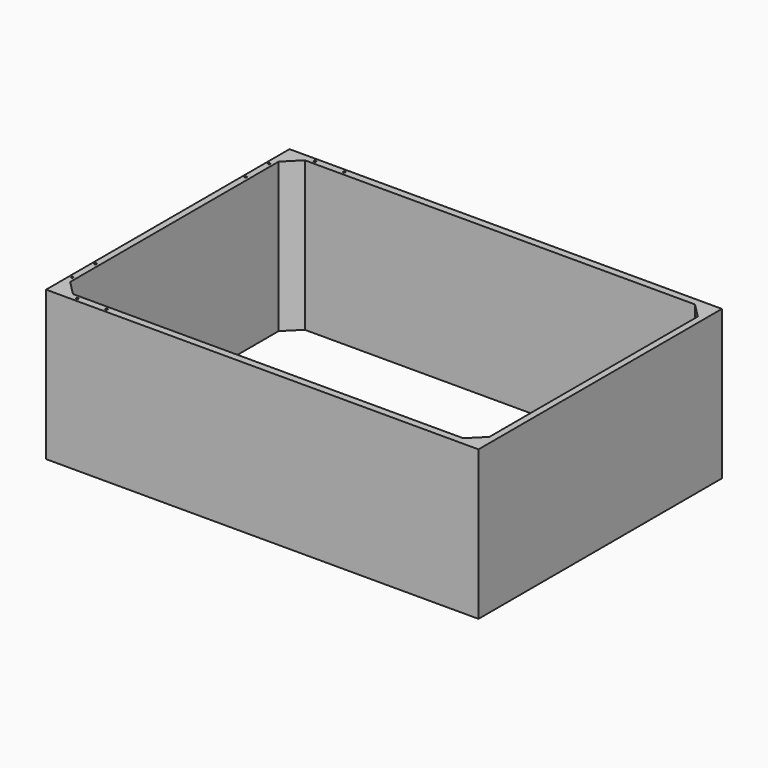
from build123d import *

# Parameters (mm, degrees)
SKETCH_W        = 594
SKETCH_H        = 418
PAD_DEPTH       = 205
POCKET_DEPTH    = 205.001
COPYSKETCH002_R = 1.5
HOLE_DEPTH      = 14.098709
HOLE_TIPS_R     = 1.5


with BuildPart() as part:
    # Sketch → Pad (new body)
    with BuildSketch(Plane.XY):
        Rectangle(SKETCH_W, SKETCH_H)
    extrude(amount=-PAD_DEPTH)

    # Sketch001 (on Face5 of Pad) → Pocket (cut, through all)
    with BuildSketch(Plane.XY):
        Polygon((-288, -179), (-288, 179), (-268, 199), (268, 199), (288, 179), (288, -179), (268, -199), (-268, -199), align=None)
    extrude(amount=-POCKET_DEPTH, mode=Mode.SUBTRACT)

    # CopySketch002 → Hole (cut)
    with BuildSketch(Plane.XY):
        with Locations((-258, -204)):
            Circle(COPYSKETCH002_R)
        with Locations((-218, -204)):
            Circle(COPYSKETCH002_R)
        with Locations((-293, -169)):
            Circle(COPYSKETCH002_R)
        with Locations((-293, -129)):
            Circle(COPYSKETCH002_R)
        with Locations((-293, 169)):
            Circle(COPYSKETCH002_R)
        with Locations((-293, 129)):
            Circle(COPYSKETCH002_R)
        with Locations((-258, 204)):
            Circle(COPYSKETCH002_R)
        with Locations((-218, 204)):
            Circle(COPYSKETCH002_R)
    extrude(amount=-HOLE_DEPTH, mode=Mode.SUBTRACT)

    # Hole tips → Hole tip 1 section 0
    with BuildSketch(Plane.XY.offset(-14.098709), mode=Mode.PRIVATE) as hole_tip_1_s0:
        with Locations((-258, -204)):
            Circle(HOLE_TIPS_R)
    loft([hole_tip_1_s0.sketch, Vertex(-258, -204, -15)], mode=Mode.SUBTRACT)

    # Hole tips → Hole tip 2 section 0
    with BuildSketch(Plane.XY.offset(-14.098709), mode=Mode.PRIVATE) as hole_tip_2_s0:
        with Locations((-218, -204)):
            Circle(HOLE_TIPS_R)
    loft([hole_tip_2_s0.sketch, Vertex(-218, -204, -15)], mode=Mode.SUBTRACT)

    # Hole tips → Hole tip 3 section 0
    with BuildSketch(Plane.XY.offset(-14.098709), mode=Mode.PRIVATE) as hole_tip_3_s0:
        with Locations((-293, -169)):
            Circle(HOLE_TIPS_R)
    loft([hole_tip_3_s0.sketch, Vertex(-293, -169, -15)], mode=Mode.SUBTRACT)

    # Hole tips → Hole tip 4 section 0
    with BuildSketch(Plane.XY.offset(-14.098709), mode=Mode.PRIVATE) as hole_tip_4_s0:
        with Locations((-293, -129)):
            Circle(HOLE_TIPS_R)
    loft([hole_tip_4_s0.sketch, Vertex(-293, -129, -15)], mode=Mode.SUBTRACT)

    # Hole tips → Hole tip 5 section 0
    with BuildSketch(Plane.XY.offset(-14.098709), mode=Mode.PRIVATE) as hole_tip_5_s0:
        with Locations((-293, 169)):
            Circle(HOLE_TIPS_R)
    loft([hole_tip_5_s0.sketch, Vertex(-293, 169, -15)], mode=Mode.SUBTRACT)

    # Hole tips → Hole tip 6 section 0
    with BuildSketch(Plane.XY.offset(-14.098709), mode=Mode.PRIVATE) as hole_tip_6_s0:
        with Locations((-293, 129)):
            Circle(HOLE_TIPS_R)
    loft([hole_tip_6_s0.sketch, Vertex(-293, 129, -15)], mode=Mode.SUBTRACT)

    # Hole tips → Hole tip 7 section 0
    with BuildSketch(Plane.XY.offset(-14.098709), mode=Mode.PRIVATE) as hole_tip_7_s0:
        with Locations((-258, 204)):
            Circle(HOLE_TIPS_R)
    loft([hole_tip_7_s0.sketch, Vertex(-258, 204, -15)], mode=Mode.SUBTRACT)

    # Hole tips → Hole tip 8 section 0
    with BuildSketch(Plane.XY.offset(-14.098709), mode=Mode.PRIVATE) as hole_tip_8_s0:
        with Locations((-218, 204)):
            Circle(HOLE_TIPS_R)
    loft([hole_tip_8_s0.sketch, Vertex(-218, 204, -15)], mode=Mode.SUBTRACT)


solid = part.part
